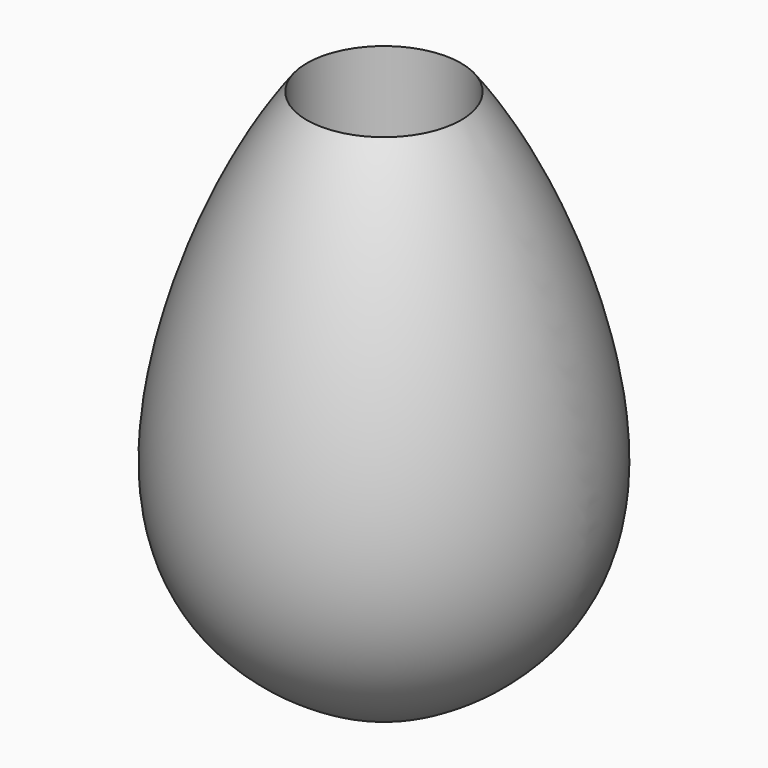
from build123d import *

# Parameters (mm, degrees)
F2_R     = 3.360638844
F3_DEPTH = 26.6862659242


with BuildPart() as f1:
    # F0 (on Front) → F1 (revolve)
    with BuildSketch(Plane.XZ):
        with BuildLine():
            Line((0, 26.6852658242), (0, 0))
            add(Edge.make_bspline(
                [(0, 26.6852658242), (3.7466522772, 25.4392307252), (11.470935055, 9.4329801487), (6.2860032053, 2.0510405701), (0, 0)],
                knots=[0, 0, 0, 0, 0.5342415023, 1, 1, 1, 1], degree=3))
        make_face()
    revolve(axis=Axis((0, 0, 13.3426329121), (0, 0, 1)))

    # F2 (on Top) → F3 (cut, through all)
    with BuildSketch(Plane.XY):
        Circle(F2_R)
    extrude(amount=F3_DEPTH, mode=Mode.SUBTRACT)


solid = f1.part
